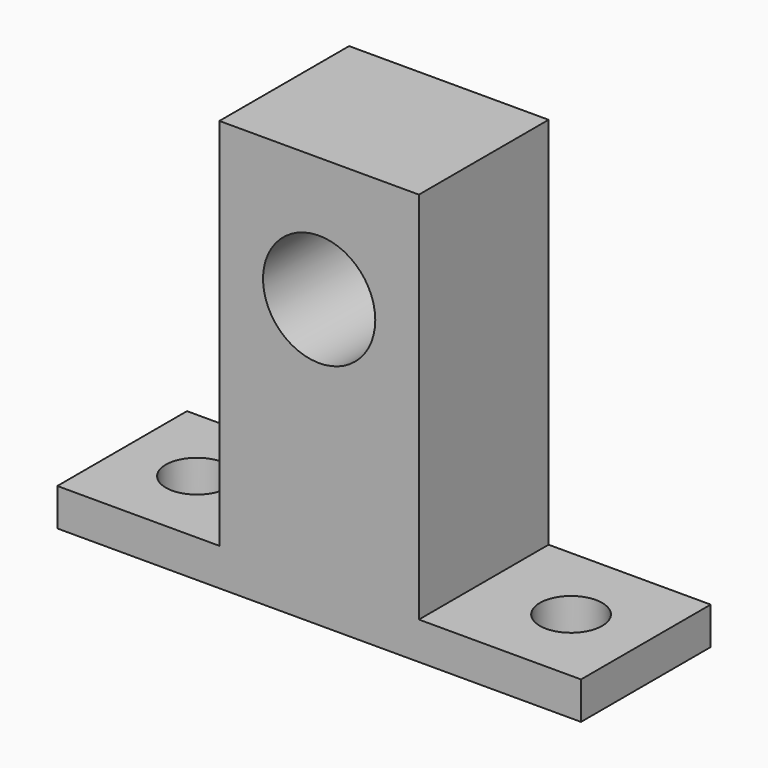
from build123d import *

# Parameters (mm, degrees)
F0_R     = 4.5
F1_DEPTH = 13
F2_R     = 2.5
F3_DEPTH = 25


with BuildPart() as f1:
    # F0 (on Front) → F1 (new body)
    with BuildSketch(Plane.XZ):
        Polygon((8, 10), (-8, 10), (-8, -20), (-21, -20), (-21, -23), (-8, -23), (8, -23), (21, -23), (21, -20), (8, -20), align=None)
        Circle(F0_R, mode=Mode.SUBTRACT)
    extrude(amount=F1_DEPTH)

    # F2 (on face) → F3 (cut)
    with BuildSketch(Plane.XY.offset(-20)):
        with Locations((15, -6.5)):
            Circle(F2_R)
        with Locations((-15, -6.5)):
            Circle(F2_R)
    extrude(amount=-F3_DEPTH, mode=Mode.SUBTRACT)


solid = f1.part
